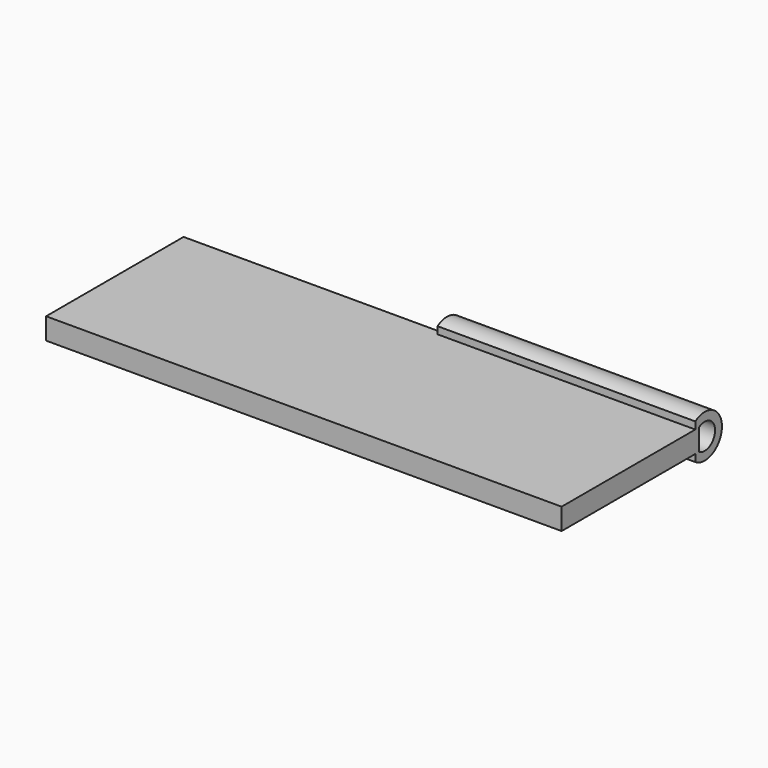
from build123d import *

# Parameters (mm, degrees)
F0_W     = 76.2
F0_H     = 25.4
F1_DEPTH = 3.175
F3_DEPTH = 38.1


with BuildPart() as f1:
    # F0 (on Top) → F1 (new body)
    with BuildSketch(Plane.XY):
        Rectangle(F0_W, F0_H)
    extrude(amount=F1_DEPTH)

    # F2 (on face) → F3 (join)
    with BuildSketch(Plane.YZ.offset(38.1)):
        with BuildLine():
            ThreePointArc((12.7, 3.175), (15.6546839221, 1.5875), (12.7, 0))
            Line((12.7, 0), (11.9989794308, -1.0589948827))
            ThreePointArc((11.9989794308, -1.0589948827), (16.9246839221, 1.5875), (11.9989794308, 4.2339948827))
            Line((11.9989794308, 4.2339948827), (12.7, 3.175))
        make_face()
        Polygon((11.9989794308, 3.175), (12.7, 3.175), (11.9989794308, 4.2339948827), align=None)
        Polygon((11.9989794308, -1.0589948827), (12.7, 0), (11.9989794308, 0), align=None)
    extrude(amount=-F3_DEPTH)


solid = f1.part
